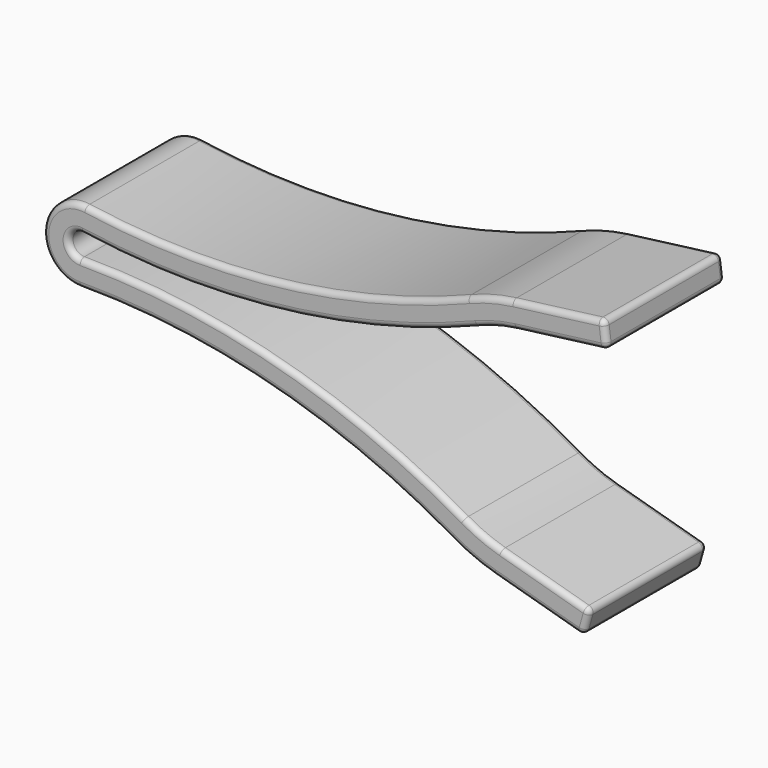
from build123d import *

# Parameters (mm, degrees)
F1_DEPTH = 20.32
F2_R     = 0.762


with BuildPart() as f1:
    # F0 (on Front) → F1 (new body)
    with BuildSketch(Plane.XZ):
        with BuildLine():
            ThreePointArc((21.306762, 16.25961), (-4.560012, 9.701865), (-31.242051, 10.105342))
            ThreePointArc((-31.242051, 10.105342), (-37.051563, 5.452601), (-31.985246, 0))
            ThreePointArc((-31.985246, 0), (-5.531263, -3.5044), (19.097811, -13.77585))
            ThreePointArc((19.097811, -13.77585), (21.956659, -15.206004), (24.972497, -16.265755))
            Line((24.972497, -16.265755), (37.195468, -19.713795))
            Line((37.195468, -19.713795), (38.145715, -16.34526))
            Line((38.145715, -16.34526), (25.922744, -12.89722))
            ThreePointArc((25.922744, -12.89722), (23.322474, -11.983497), (20.857562, -10.750412))
            ThreePointArc((20.857562, -10.750412), (-4.619955, -0.125122), (-31.985246, 3.5))
            ThreePointArc((-31.985246, 3.5), (-33.56099, 5.195888), (-31.754095, 6.643))
            ThreePointArc((-31.754095, 6.643), (-4.152891, 6.225624), (22.604963, 13.009276))
            ThreePointArc((22.604963, 13.009276), (25.223752, 13.868481), (27.92972, 14.391958))
            Line((27.92972, 14.391958), (40.52562, 16.014699))
            Line((40.52562, 16.014699), (40.078408, 19.486011))
            Line((40.078408, 19.486011), (27.482508, 17.863269))
            ThreePointArc((27.482508, 17.863269), (24.344079, 17.256131), (21.306762, 16.25961))
        make_face()
    extrude(amount=F1_DEPTH)

    # F2
    f2_edges = [f1.edges().sort_by_distance(p)[0] for p in [
        (33.780458, -20.32, 18.67464),
        (24.344079, -20.32, 17.256131),
        (-4.560012, -20.32, 9.701865),
        (-37.051563, -20.32, 5.452601),
        (-5.531263, -20.32, -3.5044),
        (21.956659, -20.32, -15.206004),
        (31.083982, -20.32, -17.989775),
        (37.670591, -20.32, -18.029527),
        (32.034229, -20.32, -14.62124),
        (23.322474, -20.32, -11.983497),
        (-4.619955, -20.32, -0.125122),
        (-33.56099, -20.32, 5.195888),
        (-4.152891, -20.32, 6.225624),
        (25.223752, -20.32, 13.868481),
        (34.22767, -20.32, 15.203329),
        (40.302014, -20.32, 17.750355),
        (33.780458, 0, 18.67464),
        (24.344079, 0, 17.256131),
        (-4.560012, 0, 9.701865),
        (-37.051563, 0, 5.452601),
        (-5.531263, 0, -3.5044),
        (21.956659, 0, -15.206004),
        (31.083982, 0, -17.989775),
        (37.670591, 0, -18.029527),
        (32.034229, 0, -14.62124),
        (23.322474, 0, -11.983497),
        (-4.619955, 0, -0.125122),
        (-33.56099, 0, 5.195888),
        (-4.152891, 0, 6.225624),
        (25.223752, 0, 13.868481),
        (34.22767, 0, 15.203329),
        (40.302014, 0, 17.750355),
        (40.52562, -10.16, 16.014699),
        (40.078408, -10.16, 19.486011),
        (37.195468, -10.16, -19.713795),
        (38.145715, -10.16, -16.34526),
    ]]
    fillet(f2_edges, radius=F2_R)


solid = f1.part
